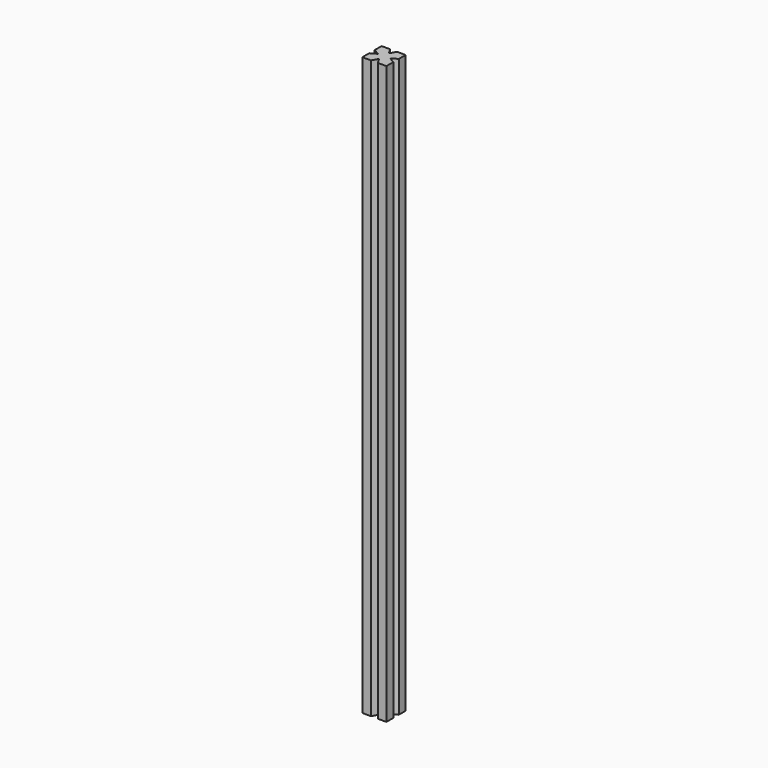
from build123d import *

# Parameters (mm, degrees)
F1_DEPTH = 609.6


with BuildPart() as f1:
    # F0 (on Top) → F1 (new body)
    with BuildSketch(Plane.XY):
        Polygon((3.644903, -12.7), (12.7, -12.7), (12.7, -3.644903), (6.386843, 0), (12.7, 3.644903), (12.7, 12.7), (3.644903, 12.7), (0, 6.386843), (-3.644903, 12.7), (-12.7, 12.7), (-12.7, 3.644903), (-6.386843, 0), (-12.7, -3.644903), (-12.7, -12.7), (-3.644903, -12.7), (0, -6.386843), align=None)
    extrude(amount=F1_DEPTH)


solid = f1.part
